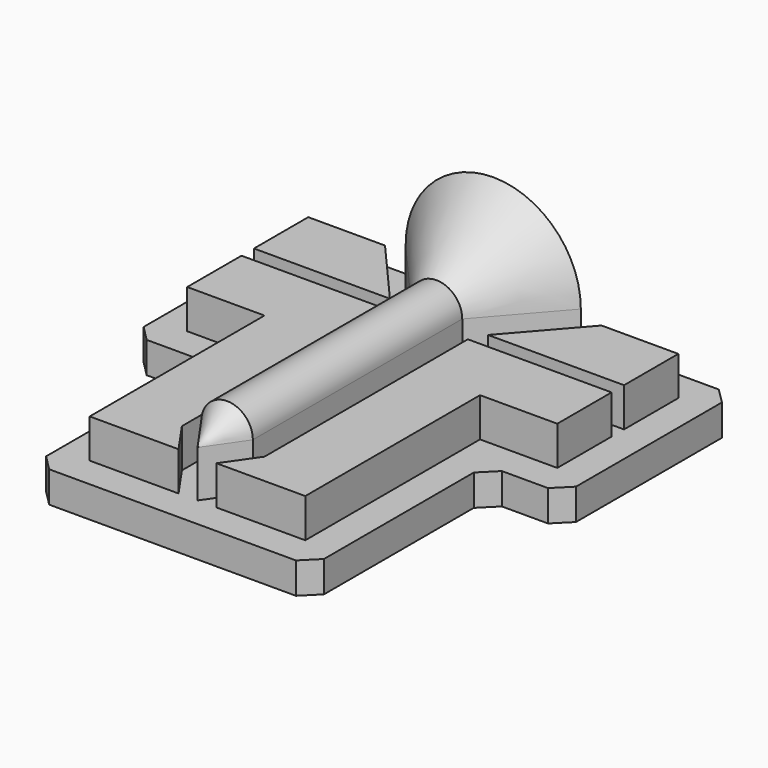
from build123d import *

# Parameters (mm, degrees)
F1_DEPTH = 100
F2_DEPTH = 125
F3_DEPTH = 150
F5_ANGLE = 180
F6_SIZE  = 50
F8_DEPTH = 50
F9_R     = 50


with BuildPart() as f1:
    # F0 (on Top) → F1 (new body)
    with BuildSketch(Plane.XY):
        Polygon((694, 100), (0, 100), (-694, 100), (-694, -585.6), (-446, -585.6), (-446, -1286.9), (0, -1286.9), (446, -1286.9), (446, -585.6), (694, -585.6), align=None)
        Polygon((-594, -485.6), (-594, -267.8), (-132.6, -267.8), (-132.6, -1083.6631870207), (-60.8812384181, -1186.9), (-346, -1186.9), (-346, -485.6), align=None, mode=Mode.SUBTRACT)
        Polygon((132.6, -267.8), (594, -267.8), (594, -485.6), (346, -485.6), (346, -1186.9), (60.8812384181, -1186.9), (132.6, -1083.6631870207), align=None, mode=Mode.SUBTRACT)
        Polygon((-281.1, 0), (0, 0), (281.1, 0), (82.6, -227.7), (82.6, -1068), (0, -1186.9), (-82.6, -1068), (-82.6, -227.7), align=None, mode=Mode.SUBTRACT)
        Polygon((-594, -217.8), (-594, 0), (-347.4318814101, 0), (-157.5623161927, -217.8), align=None, mode=Mode.SUBTRACT)
        Polygon((594, -217.8), (157.5623161927, -217.8), (347.4318814101, 0), (594, 0), align=None, mode=Mode.SUBTRACT)
        Polygon((-347.4318814101, 0), (-594, 0), (-594, -217.8), (-157.5623161927, -217.8), align=None)
        Polygon((-132.6, -267.8), (-594, -267.8), (-594, -485.6), (-346, -485.6), (-346, -1186.9), (-60.8812384181, -1186.9), (-132.6, -1083.6631870207), align=None)
        Polygon((281.1, 0), (0, 0), (0, -1186.9), (82.6, -1068), (82.6, -227.7), align=None)
        Polygon((594, -485.6), (594, -267.8), (132.6, -267.8), (132.6, -1083.6631870207), (60.8812384181, -1186.9), (346, -1186.9), (346, -485.6), align=None)
        Polygon((347.4318814101, 0), (157.5623161927, -217.8), (594, -217.8), (594, 0), align=None)
        Polygon((0, -1186.9), (0, 0), (-281.1, 0), (-82.6, -227.7), (-82.6, -1068), align=None)
    extrude(amount=-F1_DEPTH)

    # F0 (on Top) → F2 (join)
    with BuildSketch(Plane.XY):
        Polygon((-347.4318814101, 0), (-594, 0), (-594, -217.8), (-157.5623161927, -217.8), align=None)
        Polygon((-132.6, -267.8), (-594, -267.8), (-594, -485.6), (-346, -485.6), (-346, -1186.9), (-60.8812384181, -1186.9), (-132.6, -1083.6631870207), align=None)
        Polygon((594, -485.6), (594, -267.8), (132.6, -267.8), (132.6, -1083.6631870207), (60.8812384181, -1186.9), (346, -1186.9), (346, -485.6), align=None)
        Polygon((347.4318814101, 0), (157.5623161927, -217.8), (594, -217.8), (594, 0), align=None)
    extrude(amount=F2_DEPTH)

    # F0 (on Top) → F3 (join)
    with BuildSketch(Plane.XY):
        Polygon((0, -1186.9), (0, 0), (-281.1, 0), (-82.6, -227.7), (-82.6, -1068), align=None)
        Polygon((281.1, 0), (0, 0), (0, -1186.9), (82.6, -1068), (82.6, -227.7), align=None)
    extrude(amount=F3_DEPTH)

    # F4 (on face) → F5 (revolve)
    with BuildSketch(Plane.XY.offset(150)):
        Polygon((0, -1186.9), (0, 0), (-281.1, 0), (-82.6, -227.7), (-82.6, -1068), align=None)
    revolve(axis=Axis((0, -593.45, 150), (0, 1, 0)), revolution_arc=F5_ANGLE)

    # F6
    f6_edges = [f1.edges().sort_by_distance(p)[0] for p in [
        (-694, 100, -50),
        (-694, -585.6, -50),
        (-446, -1286.9, -50),
        (446, -1286.9, -50),
        (-446, -585.6, -50),
        (446, -585.6, -50),
        (694, -585.6, -50),
        (694, 100, -50),
    ]]
    chamfer(f6_edges, length=F6_SIZE)

    # F7 (on face) → F8 (cut)
    with BuildSketch(Plane(origin=(0, 0, -100), x_dir=(1, 0, 0), z_dir=(0, 0, -1))):
        Polygon((-433.867965644, 435.6), (-544, 435.6), (-544, 50), (-75, 50), (-75, 1136.9), (-296, 1136.9), (-296, 573.467965644), align=None)
        Polygon((75, 1136.9), (75, 50), (544, 50), (544, 435.6), (433.867965644, 435.6), (296, 573.467965644), (296, 1136.9), align=None)
    extrude(amount=-F8_DEPTH, mode=Mode.SUBTRACT)

    # F9
    f9_edges = [f1.edges().sort_by_distance(p)[0] for p in [
        (-544, -435.6, -75),
        (-433.867966, -435.6, -75),
        (-296, -573.467966, -75),
        (-296, -1136.9, -75),
        (-75, -1136.9, -75),
        (-75, -50, -75),
        (-544, -50, -75),
        (75, -50, -75),
        (544, -50, -75),
        (544, -435.6, -75),
        (433.867966, -435.6, -75),
        (296, -573.467966, -75),
        (296, -1136.9, -75),
        (75, -1136.9, -75),
    ]]
    fillet(f9_edges, radius=F9_R)


solid = f1.part
